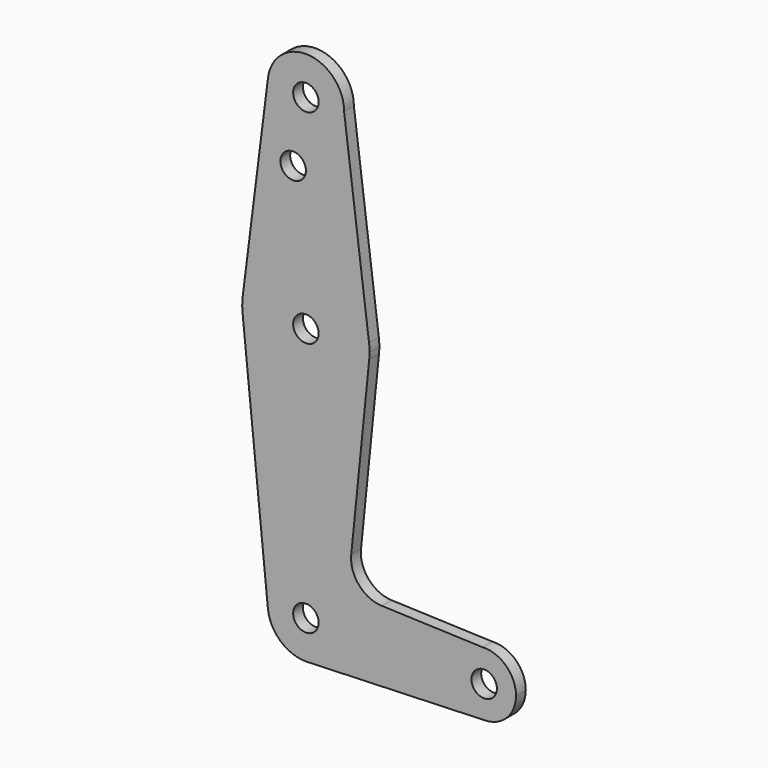
from build123d import *

# Parameters (mm, degrees)
F0_R     = 3.175
F1_DEPTH = 3.048


with BuildPart() as f1:
    # F0 (on Front) → F1 (new body)
    with BuildSketch(Plane.XZ):
        with BuildLine():
            ThreePointArc((-9.450293, 101.38966), (-0.596483, 90.69273), (9.525, 100.199035))
            ThreePointArc((9.525, 100.199035), (0.596483, 109.70534), (-9.450293, 101.38966))
        make_face()
        with Locations((0, 100.199035)):
            Circle(F0_R, mode=Mode.SUBTRACT)
        with BuildLine():
            Line((15.747457, 51.407325), (9.525, 100.199035))
            ThreePointArc((9.525, 100.199035), (-0.596483, 90.69273), (-9.450293, 101.38966))
            Line((-9.450293, 101.38966), (-15.750488, 51.38341))
            ThreePointArc((-15.750488, 51.38341), (-0.012053, 65.274031), (15.747457, 51.407325))
        make_face()
        with Locations((-3.175, 84.111445)):
            Circle(F0_R, mode=Mode.SUBTRACT)
        with BuildLine():
            ThreePointArc((15.875, 49.399035), (15.843082, 50.405203), (15.747457, 51.407325))
            ThreePointArc((15.747457, 51.407325), (-0.012053, 65.274031), (-15.750488, 51.38341))
            ThreePointArc((-15.750488, 51.38341), (-15.87146, 49.734247), (-15.820227, 48.081446))
            Line((-15.820227, 48.081446), (-15.766155, 47.543237))
            ThreePointArc((-15.766155, 47.543237), (0.128855, 33.524558), (15.794203, 47.799416))
            ThreePointArc((15.794203, 47.799416), (15.854788, 48.598206), (15.875, 49.399035))
        make_face()
        with Locations((0, 49.399035)):
            Circle(F0_R, mode=Mode.SUBTRACT)
        with BuildLine():
            Line((-15.766155, 47.543237), (-15.820227, 48.081446))
            ThreePointArc((-15.820227, 48.081446), (-15.795483, 47.812111), (-15.766155, 47.543237))
        make_face()
        with BuildLine():
            Line((11.30634, 3.487491), (15.794203, 47.799416))
            ThreePointArc((15.794203, 47.799416), (0.128855, 33.524558), (-15.766155, 47.543237))
            Line((-15.766155, 47.543237), (-9.47729, -15.053119))
            ThreePointArc((-9.47729, -15.053119), (-0.476674, -4.5879), (9.525, -14.100965))
            ThreePointArc((9.525, -14.100965), (6.970557, -20.592264), (0.677344, -23.60185))
            Line((0.677344, -23.60185), (44.732405, -22.033439))
            ThreePointArc((44.732405, -22.033439), (36.519686, -14.438648), (44.057054, -6.173197))
            Line((44.057054, -6.173197), (18.926905, -5.258538))
            ThreePointArc((18.926905, -5.258538), (13.222014, -2.536328), (11.30634, 3.487491))
        make_face()
        with BuildLine():
            ThreePointArc((9.525, -14.100965), (-0.476674, -4.5879), (-9.47729, -15.053119))
            ThreePointArc((-9.47729, -15.053119), (-6.389693, -21.164777), (0, -23.625965))
            Line((0, -23.625965), (0.677344, -23.60185))
            ThreePointArc((0.677344, -23.60185), (6.970557, -20.592264), (9.525, -14.100965))
        make_face()
        with Locations((0, -14.100965)):
            Circle(F0_R, mode=Mode.SUBTRACT)
        with BuildLine():
            Line((0.677344, -23.60185), (0, -23.625965))
            ThreePointArc((0, -23.625965), (0.338886, -23.619934), (0.677344, -23.60185))
        make_face()
        with BuildLine():
            ThreePointArc((52.3875, -14.100965), (49.921969, -8.351055), (44.057054, -6.173197))
            ThreePointArc((44.057054, -6.173197), (36.519686, -14.438648), (44.732405, -22.033439))
            ThreePointArc((44.732405, -22.033439), (50.161633, -19.612875), (52.3875, -14.100965))
        make_face()
        with Locations((44.45, -14.100965)):
            Circle(F0_R, mode=Mode.SUBTRACT)
    extrude(amount=F1_DEPTH)


solid = f1.part
